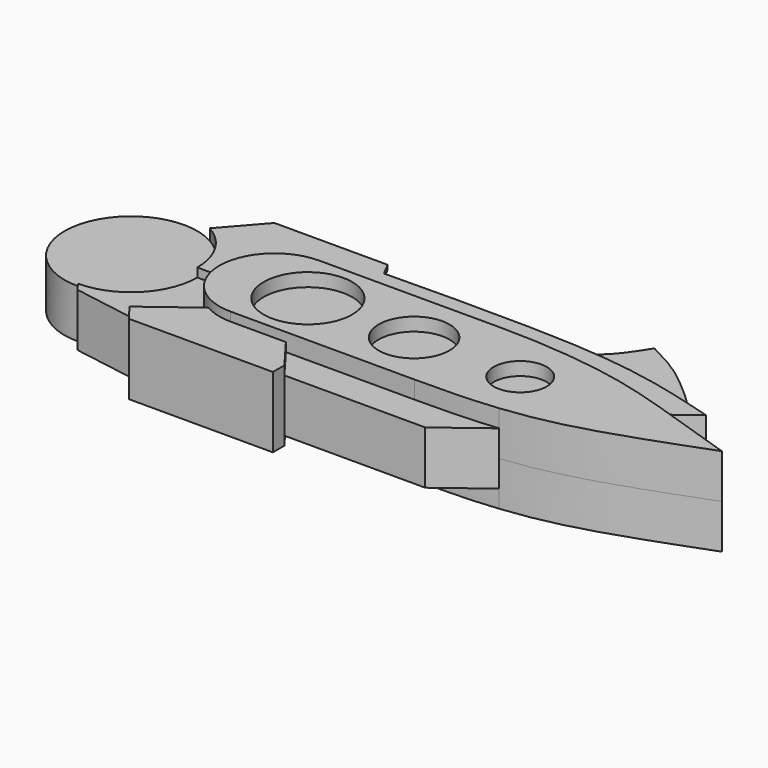
from build123d import *

# Parameters (mm, degrees)
F0_R      = 6.35
F0_R_2    = 5.08
F0_R_3    = 3.81
F1_DEPTH  = 6.35
F2_DEPTH  = 5.08
F3_DEPTH  = 3.81
F4_DEPTH  = 5.08
F5_DEPTH  = 4.445
F6_DEPTH  = 2.54
F7_DEPTH  = 3.4925
F9_W      = 25.4
F9_H      = 8.89
F10_DEPTH = 25.4


with BuildPart() as f1:
    # F0 (on Top) → F1 (new body, symmetric)
    with BuildSketch(Plane.XY):
        with BuildLine():
            ThreePointArc((20.6375, 7.9375), (15.0248399243, 5.6126600757), (12.7, 0))
            ThreePointArc((12.7, 0), (13.7452631291, -3.9371280351), (16.6057580259, -6.8373213252))
            ThreePointArc((16.6057580259, -6.8373213252), (18.5479225031, -7.657517361), (20.6375, -7.9375))
            Line((20.6375, -7.9375), (28.5891905523, -7.9375))
            Line((28.5891905523, -7.9375), (47.0239648166, -7.9375))
            add(Edge.make_bspline(
                [(47.0239648166, -7.9375), (50.1628587093, -7.9375), (54.4708534919, -7.901038248), (58.8266731571, -7.4499811863)],
                knots=[0, 0, 0, 0, 0.356398942, 0.356398942, 0.356398942, 0.356398942], degree=3))
            add(Edge.make_bspline(
                [(58.8266731571, -7.4499811863), (59.861459017, -7.3428262751), (67.7479089132, -6.3504244943), (74.9216513282, -3.7130513492), (84.8327428102, 0)],
                knots=[0.356398942, 0.356398942, 0.356398942, 0.356398942, 0.4410664934, 1, 1, 1, 1], degree=3))
            add(Edge.make_bspline(
                [(71.9619289421, 4.23150589), (75.6261537873, 3.1012059967), (79.6949939777, 1.6929446589), (84.8327428102, 0)],
                knots=[0.7129863176, 0.7129863176, 0.7129863176, 0.7129863176, 1, 1, 1, 1], degree=3))
            add(Edge.make_bspline(
                [(47.0239648166, 7.9375), (50.9085468383, 7.9375), (60.3889330239, 7.4479522989), (68.5575973368, 5.2816367669), (71.9619289421, 4.23150589)],
                knots=[0, 0, 0, 0, 0.4463297146, 0.7129863176, 0.7129863176, 0.7129863176, 0.7129863176], degree=3))
            Line((47.0239648166, 7.9375), (28.9170779288, 7.9375))
            Line((28.9170779288, 7.9375), (20.6375, 7.9375))
        make_face()
        with Locations((25.4, 0)):
            Circle(F0_R, mode=Mode.SUBTRACT)
        with Locations((40.64, 0)):
            Circle(F0_R_2, mode=Mode.SUBTRACT)
        with Locations((55.88, 0)):
            Circle(F0_R_3, mode=Mode.SUBTRACT)
    extrude(amount=F1_DEPTH, both=True)

    # F0 (on Top) → F2 (join, symmetric)
    with BuildSketch(Plane.XY):
        with BuildLine():
            ThreePointArc((4.6669778819, 8.3033091265), (8.2212708666, 4.8100239435), (9.525, 0))
            Line((9.525, 0), (12.7, 0))
            ThreePointArc((12.7, 0), (15.0248399243, 5.6126600757), (20.6375, 7.9375))
            Line((20.6375, 7.9375), (28.9170779288, 7.9375))
            Line((28.9170779288, 7.9375), (26.7881988015, 11.9220871824))
            Line((26.7881988015, 11.9220871824), (25.7645715028, 13.837993145))
            Line((25.7645715028, 13.837993145), (9.525, 13.837993145))
            Line((9.525, 13.837993145), (4.6669778819, 8.3033091265))
        make_face()
        with BuildLine():
            ThreePointArc((20.6375, -7.9375), (18.5479225031, -7.657517361), (16.6057580259, -6.8373213252))
            Line((16.6057580259, -6.8373213252), (9.525, -12.1552748606))
            Line((9.525, -12.1552748606), (11.2992681047, -14.5176804436))
            Line((11.2992681047, -14.5176804436), (31.9844596088, -14.5176804436))
            Line((31.9844596088, -14.5176804436), (31.9844596088, -12.4582387507))
            Line((31.9844596088, -12.4582387507), (28.5891905523, -7.9375))
            Line((28.5891905523, -7.9375), (20.6375, -7.9375))
        make_face()
    extrude(amount=F2_DEPTH, both=True)

    # F0 (on Top) → F3 (join, symmetric)
    with BuildSketch(Plane.XY):
        with BuildLine():
            Line((12.7, 0), (9.525, 0))
            ThreePointArc((9.525, 0), (6.7351920908, -6.7351920908), (0, -9.525))
            Line((0, -9.525), (0.9048060165, -10.7147200033))
            Line((0.9048060165, -10.7147200033), (9.525, -12.1552748606))
            Line((9.525, -12.1552748606), (16.6057580259, -6.8373213252))
            ThreePointArc((16.6057580259, -6.8373213252), (13.7452631291, -3.9371280351), (12.7, 0))
        make_face()
        with BuildLine():
            Line((47.0239648166, -7.9375), (28.5891905523, -7.9375))
            Line((28.5891905523, -7.9375), (31.9844596088, -12.4582387507))
            Line((31.9844596088, -12.4582387507), (52.2072799504, -12.4582387507))
            Line((52.2072799504, -12.4582387507), (58.8266731571, -7.4499811863))
            add(Edge.make_bspline(
                [(47.0239648166, -7.9375), (50.1628587093, -7.9375), (54.4708534919, -7.901038248), (58.8266731571, -7.4499811863)],
                knots=[0, 0, 0, 0, 0.356398942, 0.356398942, 0.356398942, 0.356398942], degree=3))
        make_face()
    extrude(amount=F3_DEPTH, both=True)

    # F0 (on Top) → F4 (join, symmetric)
    with BuildSketch(Plane.XY):
        with BuildLine():
            Line((26.7881988015, 11.9220871824), (28.9170779288, 7.9375))
            Line((28.9170779288, 7.9375), (47.0239648166, 7.9375))
            add(Edge.make_bspline(
                [(47.0239648166, 7.9375), (50.9085468383, 7.9375), (60.3889330239, 7.4479522989), (68.5575973368, 5.2816367669), (71.9619289421, 4.23150589)],
                knots=[0, 0, 0, 0, 0.4463297146, 0.7129863176, 0.7129863176, 0.7129863176, 0.7129863176], degree=3))
            Line((71.9619289421, 4.23150589), (76.4748901129, 7.6230522245))
            add(Edge.make_bspline(
                [(73.1367582265, 8.5646662812), (74.256124111, 8.2560420222), (75.365507112, 7.9395471234), (76.4748901129, 7.6230522245)],
                knots=[0.9232867166, 0.9232867166, 0.9232867166, 0.9232867166, 1, 1, 1, 1], degree=3))
            add(Edge.make_bspline(
                [(47.7164069202, 11.9794139597), (52.6527554368, 11.8770937689), (62.0717029658, 11.3991886108), (69.7025526498, 9.5115230384), (73.1367582265, 8.5646662812)],
                knots=[0.4142511087, 0.4142511087, 0.4142511087, 0.4142511087, 0.6879309771, 0.9232867166, 0.9232867166, 0.9232867166, 0.9232867166], degree=3))
            add(Edge.make_bspline(
                [(26.7881988015, 11.9220871824), (32.1440259001, 11.9989515109), (38.8226365897, 12.0947998115), (46.2365173414, 12.0100889786), (47.7164069202, 11.9794139597)],
                knots=[0, 0, 0, 0, 0.3322034202, 0.4142511087, 0.4142511087, 0.4142511087, 0.4142511087], degree=3))
        make_face()
    extrude(amount=F4_DEPTH, both=True)

    # F0 (on Top) → F5 (join, symmetric)
    with BuildSketch(Plane.XY):
        with Locations((25.4, 0)):
            Circle(F0_R)
        with Locations((40.64, 0)):
            Circle(F0_R_2)
        with Locations((55.88, 0)):
            Circle(F0_R_3)
    extrude(amount=F5_DEPTH, both=True)

    # F0 (on Top) → F6 (join, symmetric)
    with BuildSketch(Plane.XY):
        with BuildLine():
            add(Edge.make_bspline(
                [(47.7164069202, 11.9794139597), (50.2553793255, 12.9562999117), (55.1487210053, 14.6691018672), (57.5801610639, 18.6143925282), (58.7539300323, 20.4865988344)],
                knots=[0, 0, 0, 0, 0.5206708795, 1, 1, 1, 1], degree=3))
            add(Edge.make_bspline(
                [(47.7164069202, 11.9794139597), (52.6527554368, 11.8770937689), (62.0717029658, 11.3991886108), (69.7025526498, 9.5115230384), (73.1367582265, 8.5646662812)],
                knots=[0.4142511087, 0.4142511087, 0.4142511087, 0.4142511087, 0.6879309771, 0.9232867166, 0.9232867166, 0.9232867166, 0.9232867166], degree=3))
            add(Edge.make_bspline(
                [(58.7539300323, 20.4865988344), (63.4669363499, 18.1300956756), (66.2353913937, 15.6805505534), (70.7506760955, 11.9174942374), (73.1367582265, 8.5646662812)],
                knots=[0, 0, 0, 0, 0.5011324349, 1, 1, 1, 1], degree=3))
        make_face()
    extrude(amount=F6_DEPTH, both=True)

    # F0 (on Top) → F7 (join, symmetric)
    with BuildSketch(Plane.XY):
        with BuildLine():
            ThreePointArc((0, -9.525), (6.7351920908, -6.7351920908), (9.525, 0))
            ThreePointArc((9.525, 0), (8.2212708666, 4.8100239435), (4.6669778819, 8.3033091265))
            ThreePointArc((4.6669778819, 8.3033091265), (-9.2145169279, 2.4121158316), (0, -9.525))
        make_face()
    extrude(amount=F7_DEPTH, both=True)

    # F9 (on offset) → F10 (cut)
    with BuildSketch(Plane.YZ.offset(17.78)):
        with Locations((20.32, 0)):
            Rectangle(F9_W, F9_H)
    extrude(amount=F10_DEPTH, mode=Mode.SUBTRACT)


solid = f1.part
